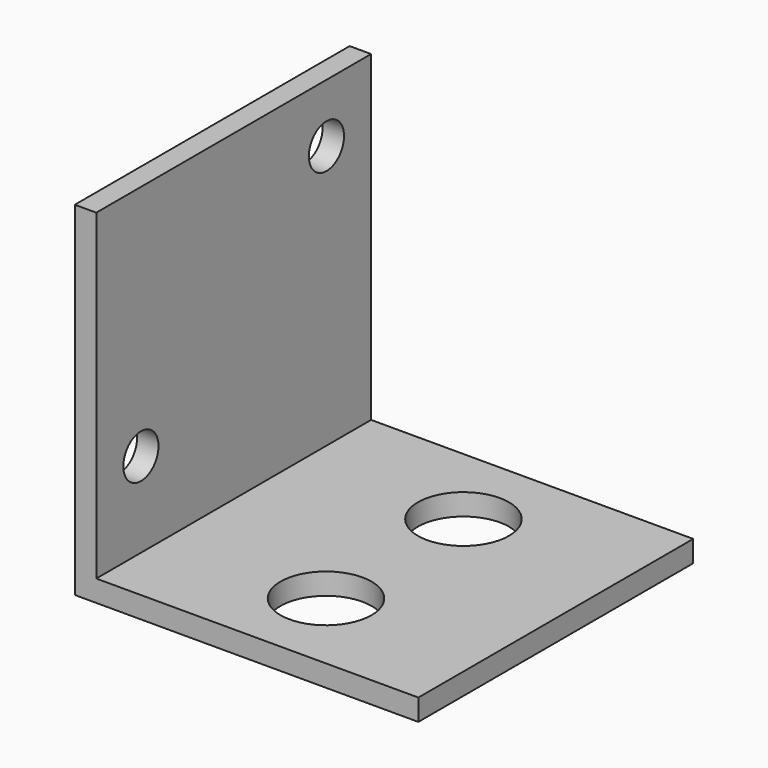
from build123d import *

# Parameters (mm, degrees)
F1_DEPTH = 25.4
F3_D     = 3.2512
F4_R     = 3.3655
F5_DEPTH = 25.4


with BuildPart() as f1:
    # F0 (on Front) → F1 (new body)
    with BuildSketch(Plane.XZ):
        Polygon((1.5875, 25.4), (0, 25.4), (0, 0), (25.4, 0), (25.4, 1.5875), (1.5875, 1.5875), align=None)
    extrude(amount=F1_DEPTH)

    # F3 (through all)
    with Locations(Plane(origin=(0, 0, 0), x_dir=(0, -1, 0), z_dir=(-1, 0, 0))):
        with Locations((4.1275, 21.082), (21.2725, 7.874)):
            Hole(F3_D / 2)

    # F4 (on face) → F5 (cut)
    with BuildSketch(Plane.XY.offset(1.5875)):
        with Locations((13.49375, -19.05)):
            Circle(F4_R)
        with Locations((13.49375, -6.35)):
            Circle(F4_R)
    extrude(amount=-F5_DEPTH, mode=Mode.SUBTRACT)


solid = f1.part
